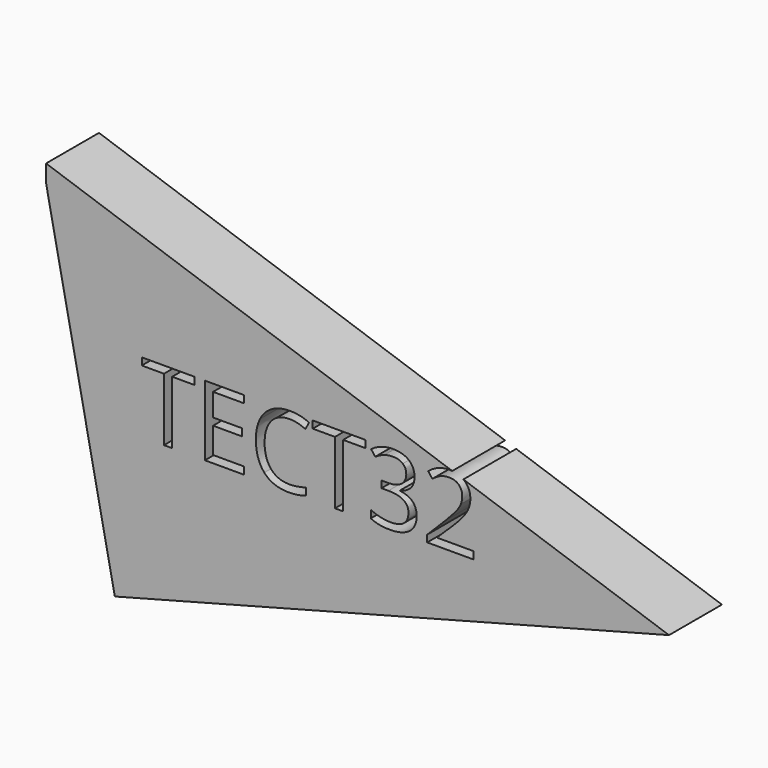
from build123d import *

# Parameters (mm, degrees)
F1_DEPTH = 25


with BuildPart() as f1:
    # F0 (on Front) → F1 (new body)
    with BuildSketch(Plane.XZ):
        with BuildLine():
            Line((27.1333980914, 4.2735439138), (-126.4131814241, 56.7106418312))
            Line((-126.4131814241, 56.7106418312), (-126.4131814241, 50.1115843654))
            Line((-126.4131814241, 50.1115843654), (-100.4294008017, -78.9824649692))
            Line((-100.4294008017, -78.9824649692), (109.0906560421, -23.7153619528))
            Line((109.0906560421, -23.7153619528), (31.3300916134, 2.8403473566))
            add(Edge.make_bspline(
                [(31.3300916134, 2.8403473566), (31.6087331931, 2.6379324169), (31.8639740687, 2.4078315454)],
                knots=[0.879679153, 0.879679153, 0.879679153, 1, 1, 1], degree=2))
            add(Edge.make_bspline(
                [(31.8639740687, 2.4078315454), (33.9853094976, 0.4954374993), (33.9853094976, -2.7315460807)],
                knots=[0, 0, 0, 1, 1, 1], degree=2))
            add(Edge.make_bspline(
                [(33.9853094976, -2.7315460807), (33.9853094976, -5.2562544572), (32.5691512359, -7.7229235606)],
                knots=[0, 0, 0, 1, 1, 1], degree=2))
            add(Edge.make_bspline(
                [(32.5691512359, -7.7229235606), (31.1529929742, -10.1895926641), (27.2759695363, -13.9621454105)],
                knots=[0, 0, 0, 1, 1, 1], degree=2))
            Line((27.2759695363, -13.9621454105), (21.4720422341, -19.6383863121))
            Line((21.4720422341, -19.6383863121), (21.4720422341, -19.7834844946))
            Line((21.4720422341, -19.7834844946), (35.1112713943, -19.7834844946))
            Line((35.1112713943, -19.7834844946), (35.1112713943, -22.575173527))
            Line((35.1112713943, -22.575173527), (17.6820777057, -22.575173527))
            Line((17.6820777057, -22.575173527), (17.6820777057, -19.9808180229))
            Line((17.6820777057, -19.9808180229), (24.6642022503, -12.9638699145))
            add(Edge.make_bspline(
                [(24.6642022503, -12.9638699145), (27.8563622665, -9.7310824072), (28.8720495444, -8.3526496729)],
                knots=[0, 0, 0, 1, 1, 1], degree=2))
            add(Edge.make_bspline(
                [(28.8720495444, -8.3526496729), (29.8877368223, -6.9742169386), (30.3955804612, -5.6683332956)],
                knots=[0, 0, 0, 1, 1, 1], degree=2))
            add(Edge.make_bspline(
                [(30.3955804612, -5.6683332956), (30.9034241002, -4.3624496526), (30.9034241002, -2.8592324814)],
                knots=[0, 0, 0, 1, 1, 1], degree=2))
            add(Edge.make_bspline(
                [(30.9034241002, -2.8592324814), (30.9034241002, -0.7349950888), (29.6149522391, 0.5070453539)],
                knots=[0, 0, 0, 1, 1, 1], degree=2))
            add(Edge.make_bspline(
                [(29.6149522391, 0.5070453539), (28.326480378, 1.7490857966), (26.0397330209, 1.7490857966)],
                knots=[0, 0, 0, 1, 1, 1], degree=2))
            add(Edge.make_bspline(
                [(26.0397330209, 1.7490857966), (24.3914176671, 1.7490857966), (22.911416205, 1.2035166302)],
                knots=[0, 0, 0, 1, 1, 1], degree=2))
            add(Edge.make_bspline(
                [(22.911416205, 1.2035166302), (21.4314147429, 0.6579474638), (19.6205894247, -0.7756225799)],
                knots=[0, 0, 0, 1, 1, 1], degree=2))
            Line((19.6205894247, -0.7756225799), (18.0245094165, 1.2731637578))
            add(Edge.make_bspline(
                [(18.0245094165, 1.2731637578), (21.6867875442, 4.3202255915), (26.0049094571, 4.3202255915)],
                knots=[0, 0, 0, 1, 1, 1], degree=2))
            add(Edge.make_bspline(
                [(26.0049094571, 4.3202255915), (26.5888819187, 4.3202255915), (27.1333980914, 4.2735439138)],
                knots=[0, 0, 0, 0.156237232, 0.156237232, 0.156237232], degree=2))
        make_face()
        Polygon((-78.7617822753, 1.2035166302), (-78.7617822753, -22.575173527), (-81.8436676727, -22.575173527), (-81.8436676727, 1.2035166302), (-90.241950479, 1.2035166302), (-90.241950479, 3.9429703168), (-70.3634994689, 3.9429703168), (-70.3634994689, 1.2035166302), align=None, mode=Mode.SUBTRACT)
        Polygon((-51.5877946463, -19.8183080584), (-51.5877946463, -22.575173527), (-66.370397485, -22.575173527), (-66.370397485, 3.9429703168), (-51.5877946463, 3.9429703168), (-51.5877946463, 1.2035166302), (-63.2885120875, 1.2035166302), (-63.2885120875, -7.3398643587), (-52.2958737771, -7.3398643587), (-52.2958737771, -10.0619062634), (-63.2885120875, -10.0619062634), (-63.2885120875, -19.8183080584), align=None, mode=Mode.SUBTRACT)
        with BuildLine():
            add(Edge.make_bspline(
                [(-28.3372618736, 0.1530057885), (-31.3495001434, 1.5633601229), (-34.3617384133, 1.5633601229)],
                knots=[0, 0, 0, 1, 1, 1], degree=2))
            add(Edge.make_bspline(
                [(-34.3617384133, 1.5633601229), (-38.7320956719, 1.5633601229), (-41.2626079756, -1.3473094191)],
                knots=[0, 0, 0, 1, 1, 1], degree=2))
            add(Edge.make_bspline(
                [(-41.2626079756, -1.3473094191), (-43.7931202794, -4.2579789612), (-43.7931202794, -9.3190035687)],
                knots=[0, 0, 0, 1, 1, 1], degree=2))
            add(Edge.make_bspline(
                [(-43.7931202794, -9.3190035687), (-43.7931202794, -14.5193224315), (-41.3525688488, -17.360344846)],
                knots=[0, 0, 0, 1, 1, 1], degree=2))
            add(Edge.make_bspline(
                [(-41.3525688488, -17.360344846), (-38.9120174182, -20.2013672604), (-34.3965619771, -20.2013672604)],
                knots=[0, 0, 0, 1, 1, 1], degree=2))
            add(Edge.make_bspline(
                [(-34.3965619771, -20.2013672604), (-31.6222847266, -20.2013672604), (-28.0644772904, -19.2030917644)],
                knots=[0, 0, 0, 1, 1, 1], degree=2))
            Line((-28.0644772904, -19.2030917644), (-28.0644772904, -21.9019179599))
            add(Edge.make_bspline(
                [(-28.0644772904, -21.9019179599), (-30.8213427589, -22.940820947), (-34.8666800886, -22.940820947)],
                knots=[0, 0, 0, 1, 1, 1], degree=2))
            add(Edge.make_bspline(
                [(-34.8666800886, -22.940820947), (-40.7228427365, -22.940820947), (-43.9062968618, -19.3830135108)],
                knots=[0, 0, 0, 1, 1, 1], degree=2))
            add(Edge.make_bspline(
                [(-43.9062968618, -19.3830135108), (-47.089750987, -15.8252060745), (-47.089750987, -9.2783760776)],
                knots=[0, 0, 0, 1, 1, 1], degree=2))
            add(Edge.make_bspline(
                [(-47.089750987, -9.2783760776), (-47.089750987, -5.1808034023), (-45.5575141793, -2.0989180048)],
                knots=[0, 0, 0, 1, 1, 1], degree=2))
            add(Edge.make_bspline(
                [(-45.5575141793, -2.0989180048), (-44.0252773715, 0.9829673927), (-41.1320196113, 2.6515964921)],
                knots=[0, 0, 0, 1, 1, 1], degree=2))
            add(Edge.make_bspline(
                [(-41.1320196113, 2.6515964921), (-38.2387618512, 4.3202255915), (-34.3211109222, 4.3202255915)],
                knots=[0, 0, 0, 1, 1, 1], degree=2))
            add(Edge.make_bspline(
                [(-34.3211109222, 4.3202255915), (-30.1538911192, 4.3202255915), (-27.0313782306, 2.7995966383)],
                knots=[0, 0, 0, 1, 1, 1], degree=2))
            Line((-27.0313782306, 2.7995966383), (-28.3372618736, 0.1530057885))
        make_face(mode=Mode.SUBTRACT)
        Polygon((-14.1176399831, 1.2035166302), (-14.1176399831, -22.575173527), (-17.1995253806, -22.575173527), (-17.1995253806, 1.2035166302), (-25.5978081869, 1.2035166302), (-25.5978081869, 3.9429703168), (-5.7193571768, 3.9429703168), (-5.7193571768, 1.2035166302), align=None, mode=Mode.SUBTRACT)
        with BuildLine():
            add(Edge.make_bspline(
                [(10.734776725, 2.552929728), (12.8764258995, 0.7856338644), (12.8764258995, -2.2962515331)],
                knots=[0, 0, 0, 1, 1, 1], degree=2))
            add(Edge.make_bspline(
                [(12.8764258995, -2.2962515331), (12.8764258995, -4.8383716914), (11.4515617468, -6.4518634814)],
                knots=[0, 0, 0, 1, 1, 1], degree=2))
            add(Edge.make_bspline(
                [(11.4515617468, -6.4518634814), (10.0266975941, -8.0653552715), (7.4149303081, -8.6109244379)],
                knots=[0, 0, 0, 1, 1, 1], degree=2))
            Line((7.4149303081, -8.6109244379), (7.4149303081, -8.7560226204))
            add(Edge.make_bspline(
                [(7.4149303081, -8.7560226204), (10.6070903243, -9.150689677), (12.148033023, -10.7844952125)],
                knots=[0, 0, 0, 1, 1, 1], degree=2))
            add(Edge.make_bspline(
                [(12.148033023, -10.7844952125), (13.6889757218, -12.4183007481), (13.6889757218, -15.0648915979)],
                knots=[0, 0, 0, 1, 1, 1], degree=2))
            add(Edge.make_bspline(
                [(13.6889757218, -15.0648915979), (13.6889757218, -18.8548561263), (11.0597966539, -20.8978385367)],
                knots=[0, 0, 0, 1, 1, 1], degree=2))
            add(Edge.make_bspline(
                [(11.0597966539, -20.8978385367), (8.430617586, -22.940820947), (3.5901422159, -22.940820947)],
                knots=[0, 0, 0, 1, 1, 1], degree=2))
            add(Edge.make_bspline(
                [(3.5901422159, -22.940820947), (1.4833166052, -22.940820947), (-0.2665674764, -22.6216049454)],
                knots=[0, 0, 0, 1, 1, 1], degree=2))
            add(Edge.make_bspline(
                [(-0.2665674764, -22.6216049454), (-2.016451558, -22.3023889438), (-3.6647669118, -21.5072509034)],
                knots=[0, 0, 0, 1, 1, 1], degree=2))
            Line((-3.6647669118, -21.5072509034), (-3.6647669118, -18.6401108161))
            add(Edge.make_bspline(
                [(-3.6647669118, -18.6401108161), (-1.9410005031, -19.4932881295), (0.0091190705, -19.9372885681)],
                knots=[0, 0, 0, 1, 1, 1], degree=2))
            add(Edge.make_bspline(
                [(0.0091190705, -19.9372885681), (1.959238644, -20.3812890068), (3.7004168347, -20.3812890068)],
                knots=[0, 0, 0, 1, 1, 1], degree=2))
            add(Edge.make_bspline(
                [(3.7004168347, -20.3812890068), (10.5722667605, -20.3812890068), (10.5722667605, -14.9952444703)],
                knots=[0, 0, 0, 1, 1, 1], degree=2))
            add(Edge.make_bspline(
                [(10.5722667605, -14.9952444703), (10.5722667605, -10.1663769549), (2.9923377038, -10.1663769549)],
                knots=[0, 0, 0, 1, 1, 1], degree=2))
            Line((2.9923377038, -10.1663769549), (0.3805704178, -10.1663769549))
            Line((0.3805704178, -10.1663769549), (0.3805704178, -7.5778253781))
            Line((0.3805704178, -7.5778253781), (3.0271612676, -7.5778253781))
            add(Edge.make_bspline(
                [(3.0271612676, -7.5778253781), (6.126458447, -7.5778253781), (7.9401857289, -6.2080985347)],
                knots=[0, 0, 0, 1, 1, 1], degree=2))
            add(Edge.make_bspline(
                [(7.9401857289, -6.2080985347), (9.7539130109, -4.8383716914), (9.7539130109, -2.4065261518)],
                knots=[0, 0, 0, 1, 1, 1], degree=2))
            add(Edge.make_bspline(
                [(9.7539130109, -2.4065261518), (9.7539130109, -0.4680144329), (8.421911695, 0.6405356819)],
                knots=[0, 0, 0, 1, 1, 1], degree=2))
            add(Edge.make_bspline(
                [(8.421911695, 0.6405356819), (7.0899103792, 1.7490857966), (4.8031630221, 1.7490857966)],
                knots=[0, 0, 0, 1, 1, 1], degree=2))
            add(Edge.make_bspline(
                [(4.8031630221, 1.7490857966), (3.0619848314, 1.7490857966), (1.5210421327, 1.2760657215)],
                knots=[0, 0, 0, 1, 1, 1], degree=2))
            add(Edge.make_bspline(
                [(1.5210421327, 1.2760657215), (-0.0199005661, 0.8030456463), (-1.9990397761, -0.4680144329)],
                knots=[0, 0, 0, 1, 1, 1], degree=2))
            Line((-1.9990397761, -0.4680144329), (-3.5196687293, 1.5633601229))
            add(Edge.make_bspline(
                [(-3.5196687293, 1.5633601229), (-1.8887651574, 2.851831984), (0.2412761625, 3.5860287877)],
                knots=[0, 0, 0, 1, 1, 1], degree=2))
            add(Edge.make_bspline(
                [(0.2412761625, 3.5860287877), (2.3713174825, 4.3202255915), (4.7335158945, 4.3202255915)],
                knots=[0, 0, 0, 1, 1, 1], degree=2))
            add(Edge.make_bspline(
                [(4.7335158945, 4.3202255915), (8.5931275504, 4.3202255915), (10.734776725, 2.552929728)],
                knots=[0, 0, 0, 1, 1, 1], degree=2))
        make_face(mode=Mode.SUBTRACT)
    extrude(amount=F1_DEPTH)


solid = f1.part
